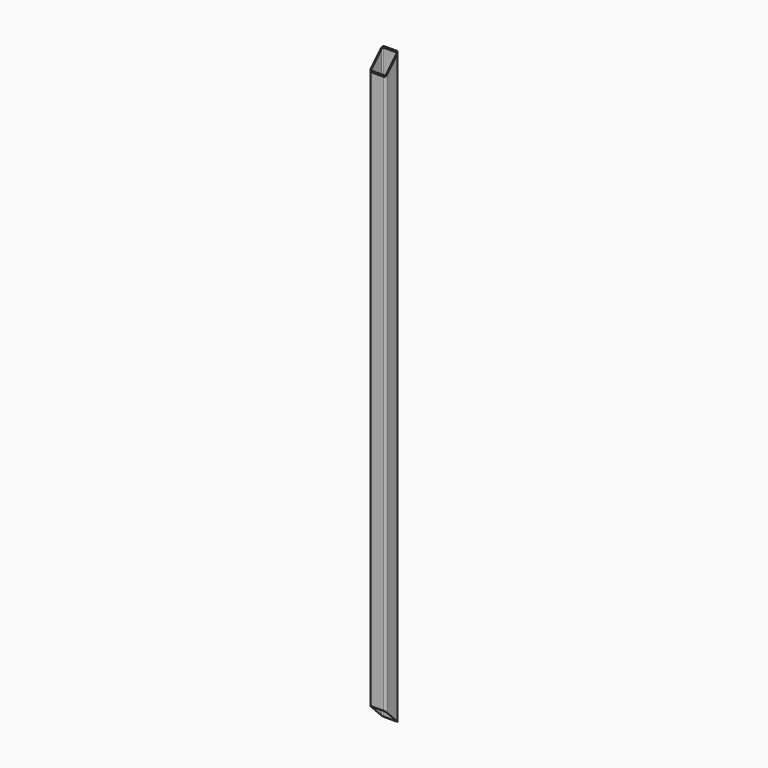
from build123d import *

# Parameters (mm, degrees)
F1_DEPTH      = 5486.4
F3_DEPTH      = 76.201
F3_DEPTH_BACK = 76.201


with BuildPart() as f1:
    # F0 (on Top) → F1 (new body)
    with BuildSketch(Plane.XY):
        with BuildLine():
            ThreePointArc((-76.2, -57.15), (-70.6203841816, -70.6203841816), (-57.15, -76.2))
            Line((-57.15, -76.2), (57.15, -76.2))
            ThreePointArc((57.15, -76.2), (70.6203841816, -70.6203841816), (76.2, -57.15))
            Line((76.2, -57.15), (76.2, 57.15))
            ThreePointArc((76.2, 57.15), (70.6203841816, 70.6203841816), (57.15, 76.2))
            Line((57.15, 76.2), (-57.15, 76.2))
            ThreePointArc((-57.15, 76.2), (-70.6203841816, 70.6203841816), (-76.2, 57.15))
            Line((-76.2, 57.15), (-76.2, -57.15))
        make_face()
        with BuildLine():
            Line((57.15, -66.675), (-57.15, -66.675))
            ThreePointArc((-57.15, -66.675), (-63.8851920908, -63.8851920908), (-66.675, -57.15))
            Line((-66.675, -57.15), (-66.675, 57.15))
            ThreePointArc((-66.675, 57.15), (-63.8851920908, 63.8851920908), (-57.15, 66.675))
            Line((-57.15, 66.675), (57.15, 66.675))
            ThreePointArc((57.15, 66.675), (63.8851920908, 63.8851920908), (66.675, 57.15))
            Line((66.675, 57.15), (66.675, -57.15))
            ThreePointArc((66.675, -57.15), (63.8851920908, -63.8851920908), (57.15, -66.675))
        make_face(mode=Mode.SUBTRACT)
    extrude(amount=F1_DEPTH)

    # F2 (on Right) → F3 (cut, two sides)
    with BuildSketch(Plane.YZ) as f3_sk:
        Polygon((76.2, 5486.4), (-76.2, 5486.4), (-76.2, 5334), align=None)
        Polygon((-76.2, 0), (76.2, 0), (-76.2, 152.4), align=None)
    extrude(amount=-F3_DEPTH, mode=Mode.SUBTRACT)
    extrude(f3_sk.sketch, amount=F3_DEPTH_BACK, mode=Mode.SUBTRACT)


solid = f1.part
